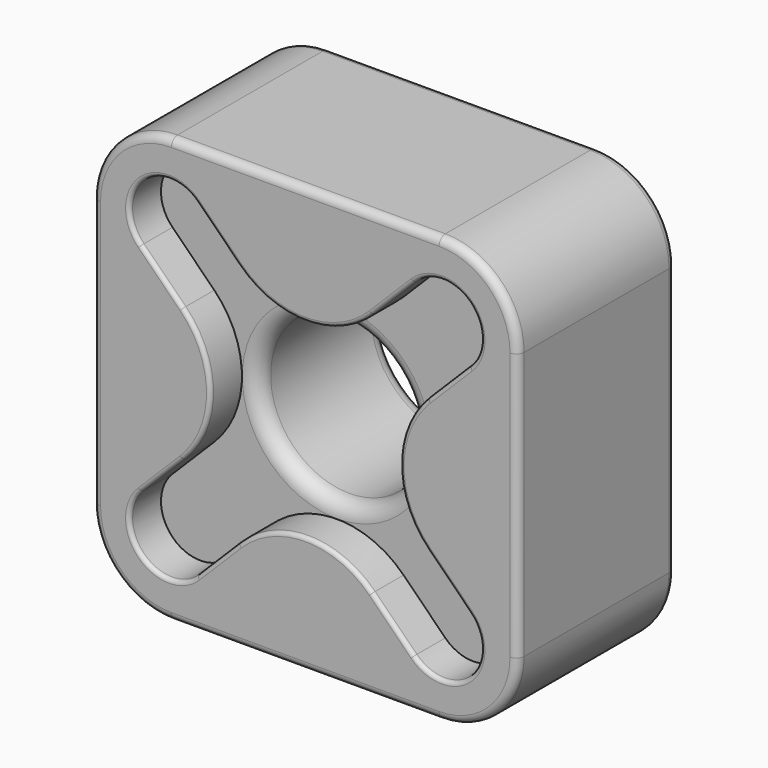
from build123d import *

# Parameters (mm, degrees)
F0_W      = 54
F0_H      = 54
F1_DEPTH  = 5
F0_R      = 10
F1_FACE_W = 54
F1_FACE_H = 54
F2_DEPTH  = 20
F3_DEPTH  = 5.001
F4_R      = 0.5
F5_R      = 2
F6_R      = 10
F7_R      = 1


with BuildPart() as f1:
    # F0 (on Front) → F1 (new body)
    with BuildSketch(Plane.XZ):
        Rectangle(F0_W, F0_H)
        with BuildLine():
            ThreePointArc((-20.85965, 13.788582), (-20.85965, 20.85965), (-13.788582, 20.85965))
            Line((-13.788582, 20.85965), (-8.485281, 15.556349))
            ThreePointArc((-8.485281, 15.556349), (0, 12.041631), (8.485281, 15.556349))
            Line((8.485281, 15.556349), (13.788582, 20.85965))
            ThreePointArc((13.788582, 20.85965), (20.85965, 20.85965), (20.85965, 13.788582))
            Line((20.85965, 13.788582), (15.556349, 8.485281))
            ThreePointArc((15.556349, 8.485281), (12.041631, 0), (15.556349, -8.485281))
            Line((15.556349, -8.485281), (20.85965, -13.788582))
            ThreePointArc((20.85965, -13.788582), (20.85965, -20.85965), (13.788582, -20.85965))
            Line((13.788582, -20.85965), (8.485281, -15.556349))
            ThreePointArc((8.485281, -15.556349), (0, -12.041631), (-8.485281, -15.556349))
            Line((-8.485281, -15.556349), (-13.788582, -20.85965))
            ThreePointArc((-13.788582, -20.85965), (-20.85965, -20.85965), (-20.85965, -13.788582))
            Line((-20.85965, -13.788582), (-15.556349, -8.485281))
            ThreePointArc((-15.556349, -8.485281), (-12.041631, 0), (-15.556349, 8.485281))
            Line((-15.556349, 8.485281), (-20.85965, 13.788582))
        make_face(mode=Mode.SUBTRACT)
    extrude(amount=F1_DEPTH)

    # F0 (on Front) + F1_face (on face) → F2 (join)
    with BuildSketch(Plane.XZ):
        Rectangle(F0_W, F0_H)
        with BuildLine():
            ThreePointArc((-20.85965, 13.788582), (-20.85965, 20.85965), (-13.788582, 20.85965))
            Line((-13.788582, 20.85965), (-8.485281, 15.556349))
            ThreePointArc((-8.485281, 15.556349), (0, 12.041631), (8.485281, 15.556349))
            Line((8.485281, 15.556349), (13.788582, 20.85965))
            ThreePointArc((13.788582, 20.85965), (20.85965, 20.85965), (20.85965, 13.788582))
            Line((20.85965, 13.788582), (15.556349, 8.485281))
            ThreePointArc((15.556349, 8.485281), (12.041631, 0), (15.556349, -8.485281))
            Line((15.556349, -8.485281), (20.85965, -13.788582))
            ThreePointArc((20.85965, -13.788582), (20.85965, -20.85965), (13.788582, -20.85965))
            Line((13.788582, -20.85965), (8.485281, -15.556349))
            ThreePointArc((8.485281, -15.556349), (0, -12.041631), (-8.485281, -15.556349))
            Line((-8.485281, -15.556349), (-13.788582, -20.85965))
            ThreePointArc((-13.788582, -20.85965), (-20.85965, -20.85965), (-20.85965, -13.788582))
            Line((-20.85965, -13.788582), (-15.556349, -8.485281))
            ThreePointArc((-15.556349, -8.485281), (-12.041631, 0), (-15.556349, 8.485281))
            Line((-15.556349, 8.485281), (-20.85965, 13.788582))
        make_face(mode=Mode.SUBTRACT)
        with BuildLine():
            Line((-8.485281, 15.556349), (-13.788582, 20.85965))
            ThreePointArc((-13.788582, 20.85965), (-20.85965, 20.85965), (-20.85965, 13.788582))
            Line((-20.85965, 13.788582), (-15.556349, 8.485281))
            ThreePointArc((-15.556349, 8.485281), (-12.041631, 0), (-15.556349, -8.485281))
            Line((-15.556349, -8.485281), (-20.85965, -13.788582))
            ThreePointArc((-20.85965, -13.788582), (-20.85965, -20.85965), (-13.788582, -20.85965))
            Line((-13.788582, -20.85965), (-8.485281, -15.556349))
            ThreePointArc((-8.485281, -15.556349), (0, -12.041631), (8.485281, -15.556349))
            Line((8.485281, -15.556349), (13.788582, -20.85965))
            ThreePointArc((13.788582, -20.85965), (20.85965, -20.85965), (20.85965, -13.788582))
            Line((20.85965, -13.788582), (15.556349, -8.485281))
            ThreePointArc((15.556349, -8.485281), (12.041631, 0), (15.556349, 8.485281))
            Line((15.556349, 8.485281), (20.85965, 13.788582))
            ThreePointArc((20.85965, 13.788582), (20.85965, 20.85965), (13.788582, 20.85965))
            Line((13.788582, 20.85965), (8.485281, 15.556349))
            ThreePointArc((8.485281, 15.556349), (0, 12.041631), (-8.485281, 15.556349))
        make_face()
        Circle(F0_R, mode=Mode.SUBTRACT)
    with BuildSketch(Plane.XZ.offset(5)):
        Rectangle(F1_FACE_W, F1_FACE_H)
        with BuildLine():
            Line((13.788582, -20.85965), (8.485281, -15.556349))
            ThreePointArc((8.485281, -15.556349), (0, -12.041631), (-8.485281, -15.556349))
            Line((-8.485281, -15.556349), (-13.788582, -20.85965))
            ThreePointArc((-13.788582, -20.85965), (-20.85965, -20.85965), (-20.85965, -13.788582))
            Line((-20.85965, -13.788582), (-15.556349, -8.485281))
            ThreePointArc((-15.556349, -8.485281), (-12.041631, 0), (-15.556349, 8.485281))
            Line((-15.556349, 8.485281), (-20.85965, 13.788582))
            ThreePointArc((-20.85965, 13.788582), (-20.85965, 20.85965), (-13.788582, 20.85965))
            Line((-13.788582, 20.85965), (-8.485281, 15.556349))
            ThreePointArc((-8.485281, 15.556349), (0, 12.041631), (8.485281, 15.556349))
            Line((8.485281, 15.556349), (13.788582, 20.85965))
            ThreePointArc((13.788582, 20.85965), (20.85965, 20.85965), (20.85965, 13.788582))
            Line((20.85965, 13.788582), (15.556349, 8.485281))
            ThreePointArc((15.556349, 8.485281), (12.041631, 0), (15.556349, -8.485281))
            Line((15.556349, -8.485281), (20.85965, -13.788582))
            ThreePointArc((20.85965, -13.788582), (20.85965, -20.85965), (13.788582, -20.85965))
        make_face(mode=Mode.SUBTRACT)
    extrude(amount=-F2_DEPTH)

    # F0 (on Front) → F3 (cut, through all)
    with BuildSketch(Plane.XZ):
        with BuildLine():
            Line((-8.485281, 15.556349), (-13.788582, 20.85965))
            ThreePointArc((-13.788582, 20.85965), (-20.85965, 20.85965), (-20.85965, 13.788582))
            Line((-20.85965, 13.788582), (-15.556349, 8.485281))
            ThreePointArc((-15.556349, 8.485281), (-12.041631, 0), (-15.556349, -8.485281))
            Line((-15.556349, -8.485281), (-20.85965, -13.788582))
            ThreePointArc((-20.85965, -13.788582), (-20.85965, -20.85965), (-13.788582, -20.85965))
            Line((-13.788582, -20.85965), (-8.485281, -15.556349))
            ThreePointArc((-8.485281, -15.556349), (0, -12.041631), (8.485281, -15.556349))
            Line((8.485281, -15.556349), (13.788582, -20.85965))
            ThreePointArc((13.788582, -20.85965), (20.85965, -20.85965), (20.85965, -13.788582))
            Line((20.85965, -13.788582), (15.556349, -8.485281))
            ThreePointArc((15.556349, -8.485281), (12.041631, 0), (15.556349, 8.485281))
            Line((15.556349, 8.485281), (20.85965, 13.788582))
            ThreePointArc((20.85965, 13.788582), (20.85965, 20.85965), (13.788582, 20.85965))
            Line((13.788582, 20.85965), (8.485281, 15.556349))
            ThreePointArc((8.485281, 15.556349), (0, 12.041631), (-8.485281, 15.556349))
        make_face()
        Circle(F0_R, mode=Mode.SUBTRACT)
    extrude(amount=F3_DEPTH, mode=Mode.SUBTRACT)

    # F4
    f4_edges = [f1.edges().sort_by_distance(p)[0] for p in [
        (18.208, -5, -11.136932),
    ]]
    fillet(f4_edges, radius=F4_R)

    # F5
    f5_edges = [f1.edges().sort_by_distance(p)[0] for p in [
        (10, 10, 0),
        (-10, 0, 0),
        (-10, 20, 0),
    ]]
    fillet(f5_edges, radius=F5_R)

    # F6
    f6_edges = [f1.edges().sort_by_distance(p)[0] for p in [
        (27, 7.5, 27),
        (27, 7.5, -27),
        (-27, 7.5, -27),
        (-27, 7.5, 27),
    ]]
    fillet(f6_edges, radius=F6_R)

    # F7
    f7_edges = [f1.edges().sort_by_distance(p)[0] for p in [
        (-27, -5, 0),
        (-27, 7.5, 17),
        (-27, 7.5, -17),
        (-27, 20, 0),
    ]]
    fillet(f7_edges, radius=F7_R)


solid = f1.part
